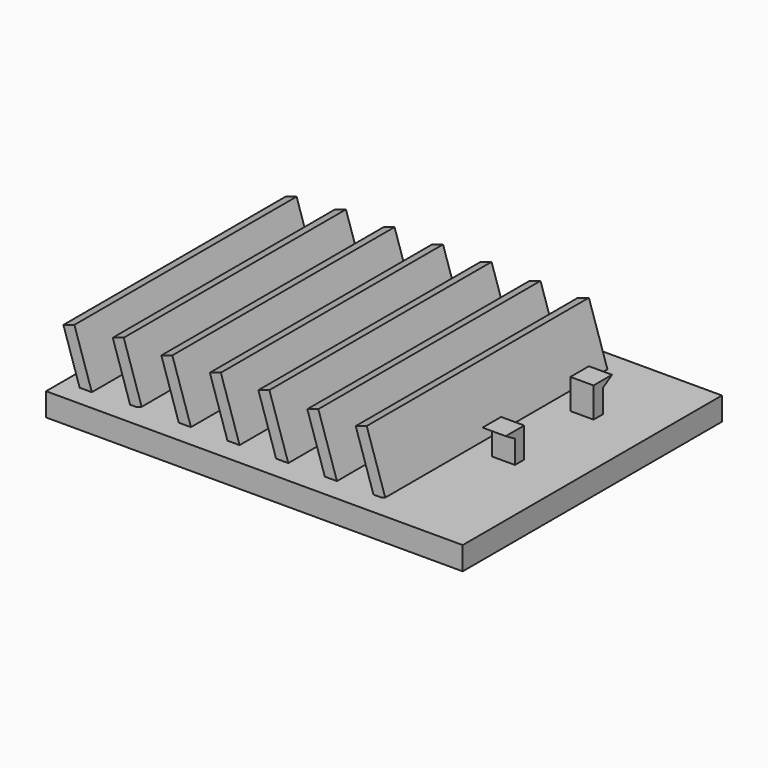
from build123d import *

# Parameters (mm, degrees)
F2_W      = 5
F2_H      = 120
F3_DEPTH  = 30
F0_W      = 180
F0_H      = 140
F4_DEPTH  = 10
F5_W      = 5
F5_H      = 120
F6_DEPTH  = 25
F9_W      = 5
F9_H      = 120
F10_DEPTH = 27.9
F12_W     = 5
F12_H     = 120
F13_DEPTH = 33.6
F14_W     = 5
F14_H     = 120
F15_DEPTH = 27.3
F17_W     = 5
F17_H     = 120
F18_DEPTH = 32
F19_W     = 5
F19_H     = 120
F20_DEPTH = 25.9
F22_W     = 10
F22_H     = 10
F23_DEPTH = 13
F26_DEPTH = 15


with BuildPart() as f3:
    # F2 (on line) → F3 (new body)
    with BuildSketch(Plane(origin=(-8.5942352531, 0, 26.4503363532), x_dir=(0.9510565163, 0, 0.3090169944), z_dir=(0.3090169944, 0, -0.9510565163))):
        with Locations((-73.0950864666, 0.9517986327)):
            Rectangle(F2_W, F2_H)
    extrude(amount=-F3_DEPTH)

    # F0 (on Top) → F4 (join)
    with BuildSketch(Plane.XY):
        Rectangle(F0_W, F0_H)
    extrude(amount=F4_DEPTH)

    # F5 (on line) → F6 (join)
    with BuildSketch(Plane(origin=(-8.5942352531, 0, 26.4503363532), x_dir=(0.9510565163, 0, 0.3090169944), z_dir=(0.3090169944, 0, -0.9510565163))):
        with Locations((-53.0950864666, 0)):
            Rectangle(F5_W, F5_H)
    extrude(amount=-F6_DEPTH)

    # F9 (on line) → F10 (join)
    with BuildSketch(Plane(origin=(-5.7232027477, 0, 17.6142068765), x_dir=(0.9510565163, 0, 0.3090169944), z_dir=(0.3090169944, 0, -0.9510565163))):
        with Locations((-33.0950864666, 0)):
            Rectangle(F9_W, F9_H)
    extrude(amount=-F10_DEPTH)

    # F12 (on line) → F13 (join)
    with BuildSketch(Plane(origin=(-2.029499084, 0, 6.2461559196), x_dir=(0.9510565163, 0, 0.3090169944), z_dir=(0.3090169944, 0, -0.9510565163))):
        with Locations((-13.0950864666, 0)):
            Rectangle(F12_W, F12_H)
    extrude(amount=-F13_DEPTH)

    # F14 (on line) → F15 (join)
    with BuildSketch(Plane(origin=(-2.029499084, 0, 6.2461559196), x_dir=(0.9510565163, 0, 0.3090169944), z_dir=(0.3090169944, 0, -0.9510565163))):
        with Locations((6.9049135334, 0)):
            Rectangle(F14_W, F14_H)
    extrude(amount=-F15_DEPTH)

    # F17 (on line) → F18 (join)
    with BuildSketch(Plane(origin=(1.5478064215, 0, -4.7636583421), x_dir=(0.9510565163, 0, 0.3090169944), z_dir=(0.3090169944, 0, -0.9510565163))):
        with Locations((26.9049135334, 0)):
            Rectangle(F17_W, F17_H)
    extrude(amount=-F18_DEPTH)

    # F19 (on line) → F20 (join)
    with BuildSketch(Plane(origin=(1.5478064215, 0, -4.7636583421), x_dir=(0.9510565163, 0, 0.3090169944), z_dir=(0.3090169944, 0, -0.9510565163))):
        with Locations((46.9049135334, 0)):
            Rectangle(F19_W, F19_H)
    extrude(amount=-F20_DEPTH)

    # F22 (on offset) → F23 (join)
    with BuildSketch(Plane.XY.offset(10)):
        with Locations((62.2089297195, 34.1514503138)):
            Rectangle(F22_W, F22_H)
        with Locations((62.2089297195, -13.2830284653)):
            Rectangle(F22_W, F22_H)
    extrude(amount=F23_DEPTH)

    # F25 (on face) + F24 (on face) → F26 (cut)
    with BuildSketch(Plane.YZ.offset(67.2089297195)):
        Polygon((-13.2830284653, 20), (-18.2830284653, 23), (-18.2830284653, 10), (-13.2830284653, 10), align=None)
    with BuildSketch(Plane.YZ.offset(67.2089297195)):
        Polygon((39.1514503138, 10), (39.1514503138, 23), (34.1514503138, 20), (34.1514503138, 10), align=None)
    extrude(amount=-F26_DEPTH, mode=Mode.SUBTRACT)


solid = f3.part
